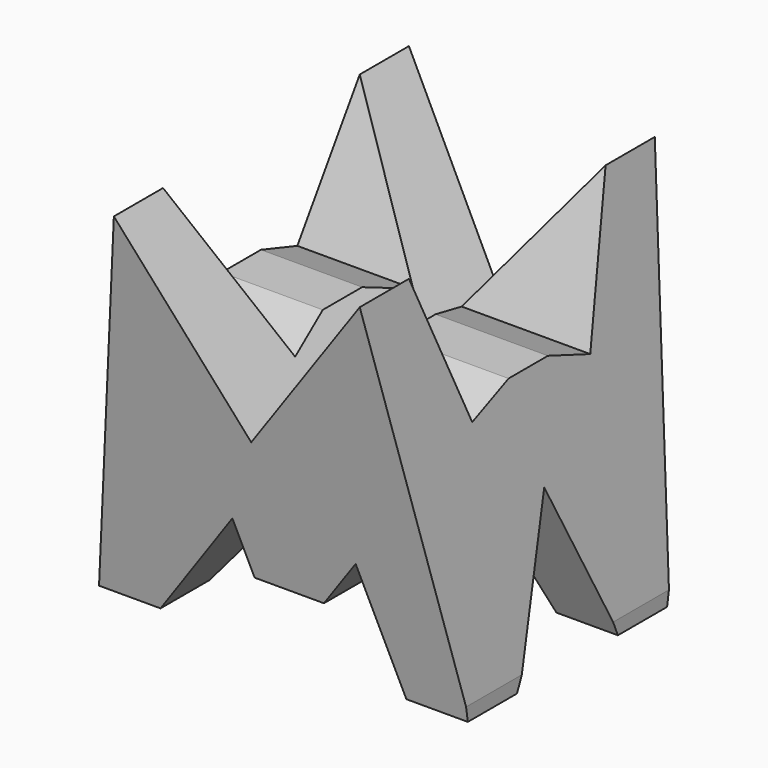
from build123d import *

# Parameters (mm, degrees)
F0_W     = 38.1
F0_H     = 38.1
F1_DEPTH = 38.1
F6_DEPTH = 38.1
F8_DEPTH = 38.1


with BuildPart() as f1:
    # F0 (on Front) → F1 (new body)
    with BuildSketch(Plane.XZ):
        with Locations((19.05, 19.05)):
            Rectangle(F0_W, F0_H)
    extrude(amount=F1_DEPTH)

    # F4 (on offset) → F6 (cut)
    with BuildSketch(Plane.YZ.offset(38.1)):
        Polygon((-38.1, 38.1), (-38.1, 0), (-32.075848, 0), align=None)
        Polygon((-6.35, 38.1), (-31.75, 38.1), (-26.67, 23.803649), (-21.59, 25.608752), (-16.51, 25.608752), (-11.43, 23.803649), align=None)
        Polygon((0, 38.1), (-6.35, 0), (0, 0), align=None)
        Polygon((-19.212924, 15.315445), (-25.725848, 0), (-12.7, 0), align=None)
    extrude(amount=-F6_DEPTH, mode=Mode.SUBTRACT)

    # F7 (on offset) → F8 (cut)
    with BuildSketch(Plane.XZ.offset(38.1)):
        Polygon((0, 38.1), (0, 0), (6.35, 38.1), align=None)
        Polygon((38.1, 38.1), (31.75, 38.1), (38.1, 1.456059), align=None)
        Polygon((15.274494, 11.858941), (6.35, 0), (31.75, 0), (28.007285, 11.858941), (24.076072, 6.658068), (16.915904, 6.658068), align=None)
        Polygon((31.75, 38.1), (6.35, 38.1), (18.287822, 20.289955), align=None)
    extrude(amount=-F8_DEPTH, mode=Mode.SUBTRACT)


solid = f1.part
